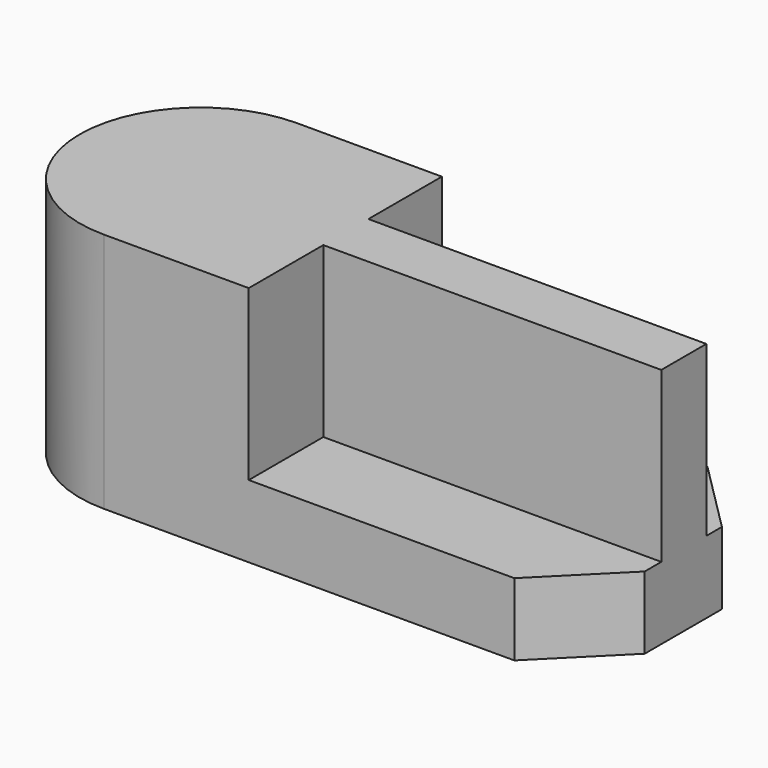
from build123d import *

# Parameters (mm, degrees)
F1_DEPTH = 9
F3_DEPTH = 21


with BuildPart() as f1:
    # F0 (on Top) → F1 (new body)
    with BuildSketch(Plane.XY):
        with BuildLine():
            Line((-51, 0), (0, 0))
            Line((0, 0), (9, 9))
            Line((9, 9), (9, 21))
            Line((9, 21), (0, 30))
            Line((0, 30), (-51, 30))
            ThreePointArc((-51, 30), (-66, 15), (-51, 0))
        make_face()
    extrude(amount=F1_DEPTH)

    # F2 (on face) → F3 (join)
    with BuildSketch(Plane.XY.offset(9)):
        with BuildLine():
            Line((-33, 18.583739), (-33, 30))
            Line((-33, 30), (-51, 30))
            ThreePointArc((-51, 30), (-66, 15), (-51, 0))
            Line((-51, 0), (-33, 0))
            Line((-33, 0), (-33, 11.583739))
            Line((-33, 11.583739), (9, 11.583739))
            Line((9, 11.583739), (9, 18.583739))
            Line((9, 18.583739), (-33, 18.583739))
        make_face()
    extrude(amount=F3_DEPTH)


solid = f1.part
